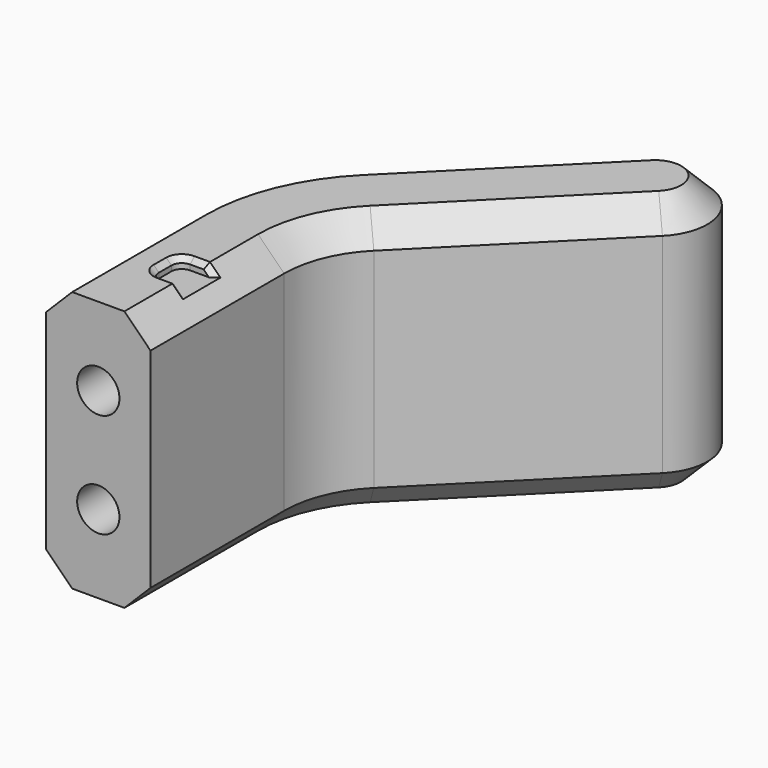
from build123d import *

# Parameters (mm, degrees)
F1_DEPTH      = 25
F1_DEPTH_BACK = 25
F2_SIZE       = 5
F3_R          = 4.05
F4_DEPTH      = 20
F6_DEPTH      = 2
F7_SIZE       = 1


with BuildPart() as f1:
    # F0 (on Top) → F1 (new body, two sides)
    with BuildSketch(Plane.XY) as f1_sk:
        with BuildLine():
            Line((42.4409423598, 91.1082738708), (11.7302642411, 60.3975957521))
            ThreePointArc((11.7302642411, 60.3975957521), (3.0593541881, 47.4206617993), (0.0145354886, 32.1133245047))
            Line((0.0145354886, 32.1133245047), (0.0145354886, 0.1133245047))
            Line((0.0145354886, 0.1133245047), (20.0145354886, 0.1133245047))
            Line((20.0145354886, 0.1133245047), (20.0145354886, 32.1133245047))
            ThreePointArc((20.0145354886, 32.1133245047), (21.5369448383, 39.766993152), (25.8723998648, 46.2554601284))
            Line((25.8723998648, 46.2554601284), (56.5830779835, 76.9661382471))
            ThreePointArc((56.5830779835, 76.9661382471), (56.5830779835, 91.1082738708), (42.4409423598, 91.1082738708))
        make_face()
    extrude(amount=F1_DEPTH)
    extrude(f1_sk.sketch, amount=-F1_DEPTH_BACK)

    # F2
    f2_edges = [f1.edges().sort_by_distance(p)[0] for p in [
        (0.014535, 16.113325, 25),
        (3.059354, 47.420662, 25),
        (27.085603, 75.752935, 25),
        (56.583078, 91.108274, 25),
        (41.227739, 61.610799, 25),
        (21.536945, 39.766993, 25),
        (20.014535, 16.113325, 25),
        (41.227739, 61.610799, -25),
        (56.583078, 91.108274, -25),
        (27.085603, 75.752935, -25),
        (3.059354, 47.420662, -25),
        (0.014535, 16.113325, -25),
        (21.536945, 39.766993, -25),
        (20.014535, 16.113325, -25),
    ]]
    chamfer(f2_edges, length=F2_SIZE)

    # F3 (on face) → F4 (cut)
    with BuildSketch(Plane.XZ.offset(-0.1133245047)):
        with Locations((10.0145354886, 10)):
            Circle(F3_R)
        with Locations((10.0145354886, -10)):
            Circle(F3_R)
    extrude(amount=-F4_DEPTH, mode=Mode.SUBTRACT)

    # F5 (on face) → F6 (cut)
    with BuildSketch(Plane.XY.offset(25)):
        with BuildLine():
            Line((12.0145354886, 12.6133245047), (20.0145354886, 12.6133245047))
            Line((20.0145354886, 12.6133245047), (20.0145354886, 19.6133245047))
            Line((20.0145354886, 19.6133245047), (12.0145354886, 19.6133245047))
            ThreePointArc((12.0145354886, 19.6133245047), (10.6003219262, 19.027538067), (10.0145354886, 17.6133245047))
            Line((10.0145354886, 17.6133245047), (10.0145354886, 14.6133245047))
            ThreePointArc((10.0145354886, 14.6133245047), (10.6003219262, 13.1991109423), (12.0145354886, 12.6133245047))
        make_face()
    extrude(amount=-F6_DEPTH, mode=Mode.SUBTRACT)

    # F7
    f7_edges = [f1.edges().sort_by_distance(p)[0] for p in [
        (10.600322, 19.027538, 25),
        (10.014535, 16.113325, 25),
        (10.600322, 13.199111, 25),
        (13.514535, 12.613325, 25),
        (16.014535, 12.613325, 24),
        (13.514535, 19.613325, 25),
        (16.014535, 19.613325, 24),
    ]]
    chamfer(f7_edges, length=F7_SIZE)


solid = f1.part
